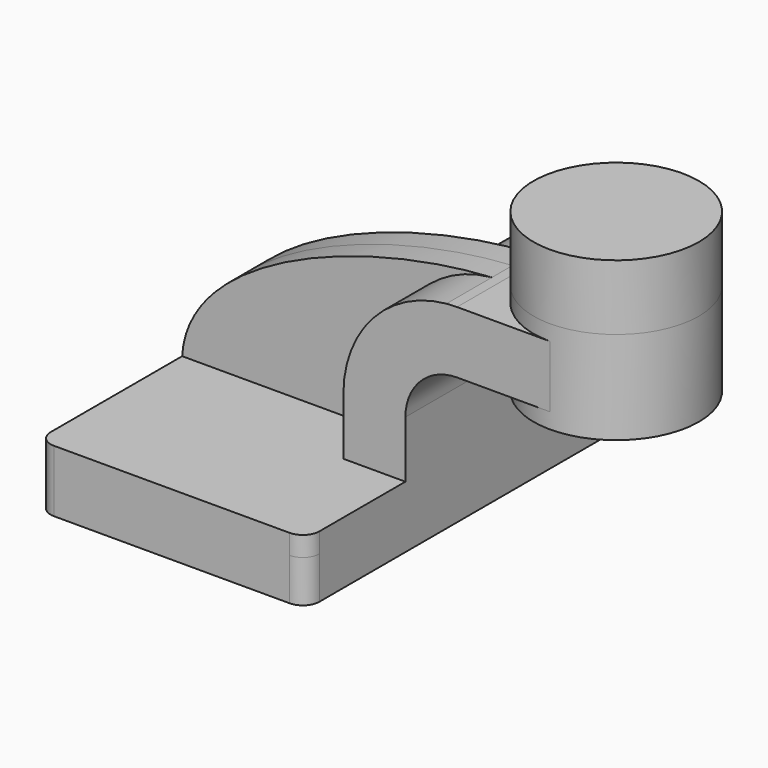
from build123d import *

# Parameters (mm, degrees)
F1_DEPTH = 63.5
F0_W     = 25.4
F0_H     = 19.05
F2_DEPTH = 25.4
F3_DEPTH = 7.9375
F5_R     = 5.08
F6_DEPTH = 6.096
F7_DEPTH = 20.066


with BuildPart() as f1:
    # F0 (on Front) → F1 (new body, symmetric)
    with BuildSketch(Plane.XZ):
        Polygon((22.225, 9.525), (-41.275, 9.525), (-41.275, -9.525), (41.275, -9.525), (41.275, 9.525), align=None)
    extrude(amount=F1_DEPTH, both=True)

    # F0 (on Front) → F2 (join, symmetric)
    with BuildSketch(Plane.XZ):
        with BuildLine():
            Line((22.225, 27.0002), (22.225, 9.525))
            Line((22.225, 9.525), (41.275, 9.525))
            Line((41.275, 9.525), (41.275, 27.0002))
            ThreePointArc((41.275, 27.0002), (45.9246798487, 38.2255201513), (57.15, 42.8752))
            Line((57.15, 42.8752), (60.325, 42.8752))
            Line((60.325, 42.8752), (60.325, 61.9252))
            Line((60.325, 61.9252), (57.15, 61.9252))
            add(Edge.make_bspline(
                [(53.8854342407, 61.7722898912), (54.9842067368, 61.8365871986), (56.0728453275, 61.8876096574), (57.15, 61.9252)],
                knots=[108.5245810491, 108.5245810491, 108.5245810491, 108.5245810491, 111.5045361635, 111.5045361635, 111.5045361635, 111.5045361635], degree=3))
            ThreePointArc((53.8854342407, 61.7722898912), (31.3258777096, 50.5133948686), (22.225, 27.0002))
        make_face()
        with Locations((73.025, 52.4002)):
            Rectangle(F0_W, F0_H)
    extrude(amount=F2_DEPTH, both=True)

    # F0 (on Front) → F3 (join, symmetric)
    with BuildSketch(Plane.XZ):
        with BuildLine():
            add(Edge.make_bspline(
                [(-41.275, 9.525), (-39.5856284224, 39.4828766469), (13.870125209, 59.4306981306), (53.8854342407, 61.7722898912)],
                knots=[0, 0, 0, 0, 108.5245810491, 108.5245810491, 108.5245810491, 108.5245810491], degree=3))
            Line((-41.275, 9.525), (22.225, 9.525))
            Line((22.225, 9.525), (22.225, 27.0002))
            ThreePointArc((22.225, 27.0002), (31.3258777096, 50.5133948686), (53.8854342407, 61.7722898912))
        make_face()
    extrude(amount=F3_DEPTH, both=True)

    # F0 (on Front) → F4 (revolve)
    with BuildSketch(Plane.XZ):
        Polygon((85.725, 66.675), (85.725, 61.9252), (85.725, 42.8752), (85.725, 38.1), (111.125, 38.1), (111.125, 66.675), align=None)
    revolve(axis=Axis((85.725, 0, 52.3875), (0, 0, 1)))

    # F5
    f5_edges = [f1.edges().sort_by_distance(p)[0] for p in [
        (41.275, -63.5, 0),
        (-41.275, -63.5, 0),
        (41.275, 63.5, 0),
        (-41.275, 63.5, 0),
    ]]
    fillet(f5_edges, radius=F5_R)

    # F6 (add): a face of the model
    f6_faces = [f1.faces().sort_by_distance(p)[0] for p in [
        (-2.489301299, -37.1427700655, 9.525),
    ]]
    extrude(f6_faces, amount=-F6_DEPTH)

    # F7 (add): a face of the model
    f7_faces = [f1.faces().sort_by_distance(p)[0] for p in [
        (85.725, 0, 66.675),
    ]]
    extrude(f7_faces, amount=F7_DEPTH)


solid = f1.part
